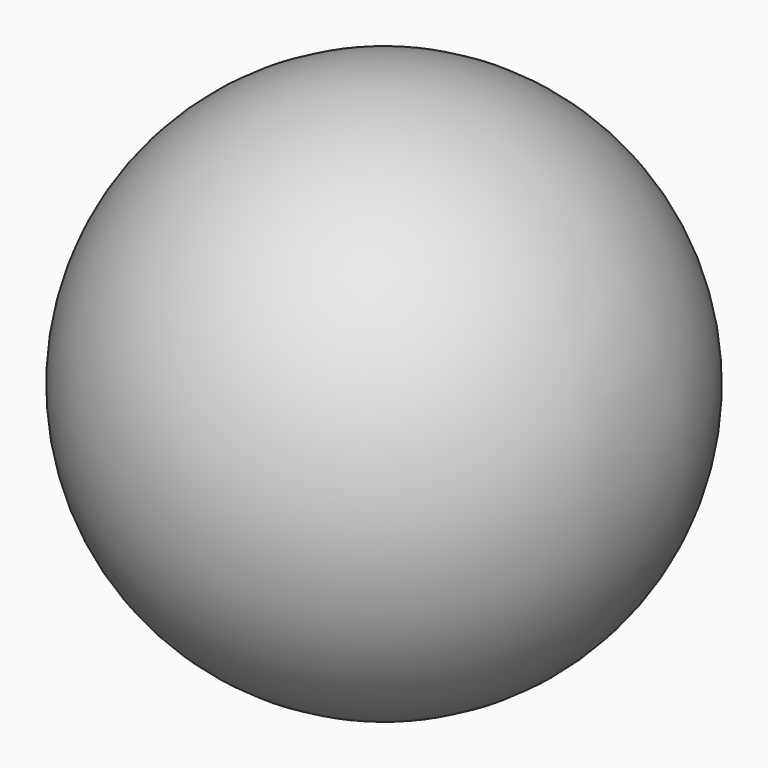
from build123d import *


with BuildPart() as part:
    # Sphere → Sphere (revolve)
    with BuildSketch(Plane.XZ):
        with BuildLine():
            ThreePointArc((0, -1), (1, 0), (0, 1))
            Line((0, 1), (0, -1))
        make_face()
    revolve(axis=Axis((0, 0, 0), (0, 0, 1)))


solid = part.part
